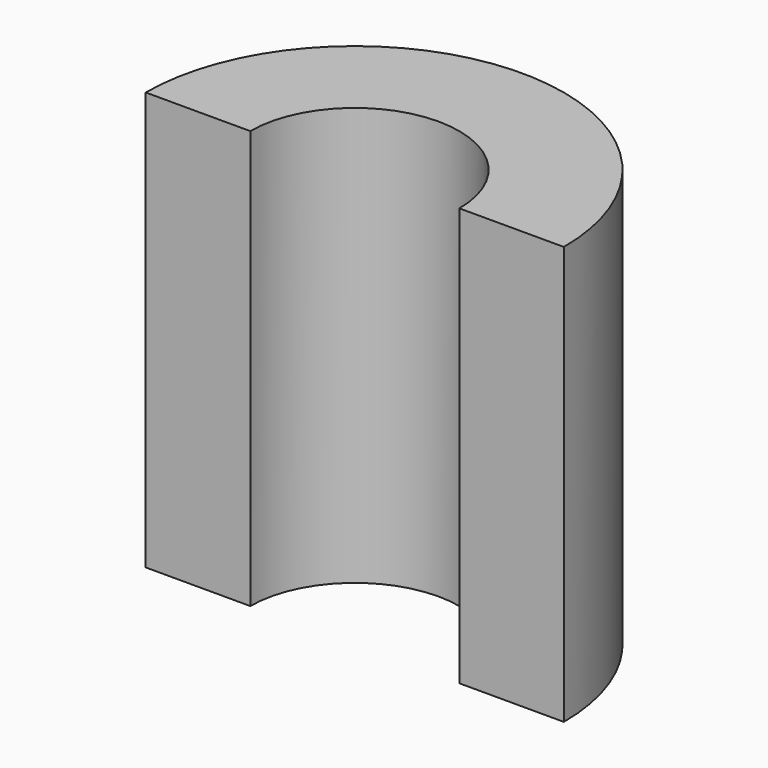
from build123d import *

# Parameters (mm, degrees)
CYLINDER003_R     = 5
CYLINDER003_DEPTH = 20
CYLINDER002_W     = 10
CYLINDER002_H     = 20
CYLINDER002_ANGLE = 180


with BuildPart() as cylinder003:
    # Cylinder003 → Cylinder003 (new body)
    with BuildSketch(Plane.XY):
        Circle(CYLINDER003_R)
    extrude(amount=CYLINDER003_DEPTH)


with BuildPart() as cut:
    # Cylinder002 → Cylinder002 (revolve)
    with BuildSketch(Plane.XZ):
        with Locations((5, 10)):
            Rectangle(CYLINDER002_W, CYLINDER002_H)
    revolve(axis=Axis((0, 0, 0), (0, 0, 1)), revolution_arc=CYLINDER002_ANGLE)

    # Cut: cut Cylinder003
    add(cylinder003.part, mode=Mode.SUBTRACT)


with BuildPart() as cut_1:
    # Cut placement: moved
    add(cut.part.moved(Location((0, 0, 60))))


solid = cut_1.part
